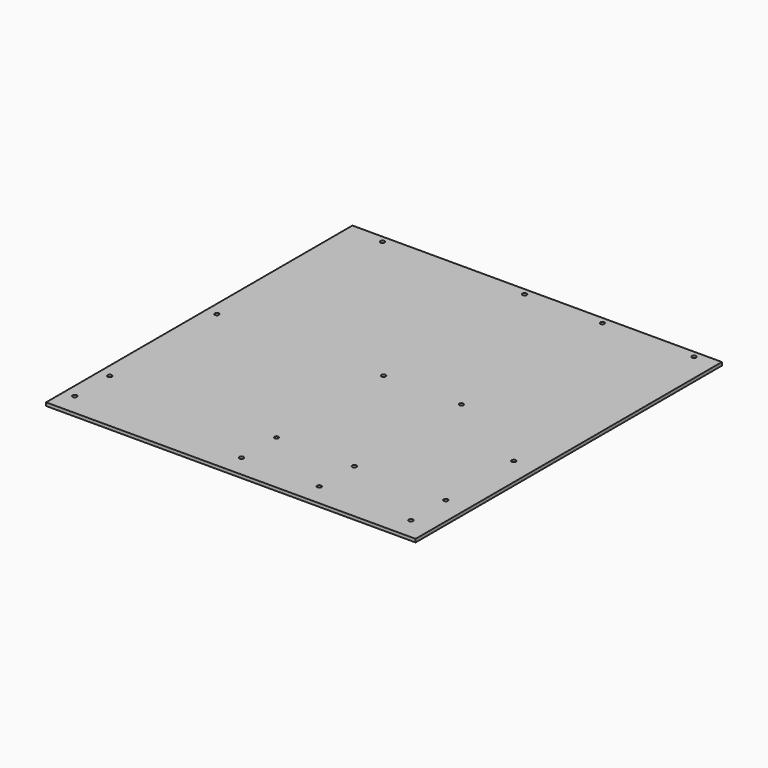
from build123d import *

# Parameters (mm, degrees)
F0_W     = 343.450665
F0_H     = 355.939229
F0_R     = 1.981
F1_DEPTH = 3


with BuildPart() as f1:
    # F0 (on Top) → F1 (new body)
    with BuildSketch(Plane.XY):
        with Locations((171.725332, -171.619614)):
            Rectangle(F0_W, F0_H)
        with Locations((10.16, -328.93)):
            Circle(F0_R, mode=Mode.SUBTRACT)
        with Locations((10.16, -288.29)):
            Circle(F0_R, mode=Mode.SUBTRACT)
        with Locations((165.1, -328.93)):
            Circle(F0_R, mode=Mode.SUBTRACT)
        with Locations((165.1, -288.29)):
            Circle(F0_R, mode=Mode.SUBTRACT)
        with Locations((237.49, -328.93)):
            Circle(F0_R, mode=Mode.SUBTRACT)
        with Locations((237.49, -288.29)):
            Circle(F0_R, mode=Mode.SUBTRACT)
        with Locations((322.58, -328.93)):
            Circle(F0_R, mode=Mode.SUBTRACT)
        with Locations((322.58, -288.29)):
            Circle(F0_R, mode=Mode.SUBTRACT)
        with Locations((322.58, -209.55)):
            Circle(F0_R, mode=Mode.SUBTRACT)
        with Locations((10.16, -163.83)):
            Circle(F0_R, mode=Mode.SUBTRACT)
        with Locations((165.1, -163.83)):
            Circle(F0_R, mode=Mode.SUBTRACT)
        with Locations((33.02, 0)):
            Circle(F0_R, mode=Mode.SUBTRACT)
        with Locations((165.1, 0)):
            Circle(F0_R, mode=Mode.SUBTRACT)
        with Locations((237.49, -163.83)):
            Circle(F0_R, mode=Mode.SUBTRACT)
        with Locations((237.49, 0)):
            Circle(F0_R, mode=Mode.SUBTRACT)
        with Locations((322.58, 0)):
            Circle(F0_R, mode=Mode.SUBTRACT)
    extrude(amount=F1_DEPTH)


solid = f1.part
